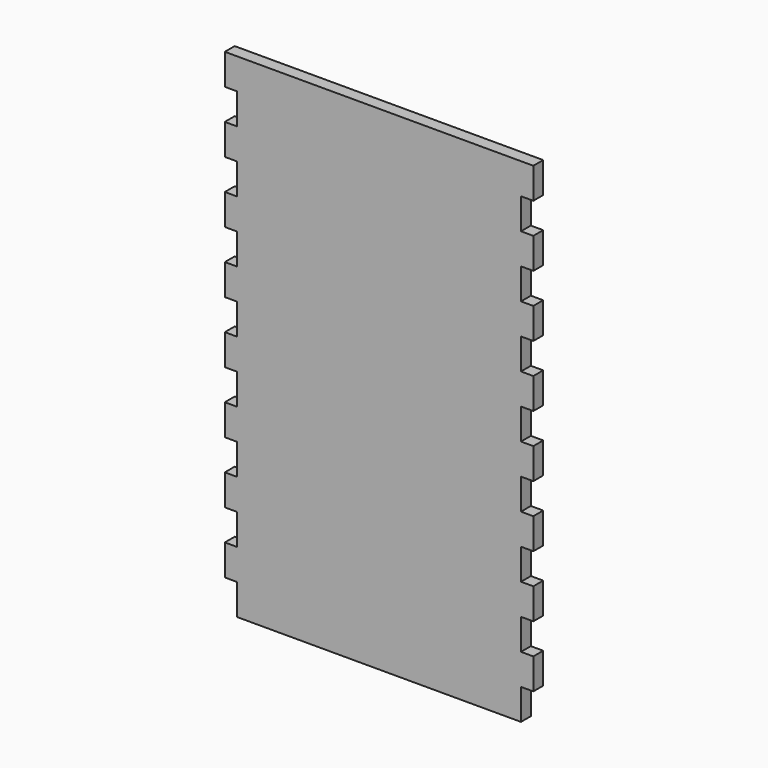
from build123d import *

# Parameters (mm, degrees)
F0_W     = 100
F0_H     = 160
F1_DEPTH = 4
F2_W     = 4
F2_H     = 10
F3_DEPTH = 4


with BuildPart() as f1:
    # F0 (on Front) → F1 (new body)
    with BuildSketch(Plane.XZ):
        with Locations((50, 80)):
            Rectangle(F0_W, F0_H)
    extrude(amount=F1_DEPTH)

    # F2 (on face) → F3 (cut, through all)
    with BuildSketch(Plane.XZ.offset(4)):
        with Locations((2, 5)):
            Rectangle(F2_W, F2_H)
        with Locations((2, 25)):
            Rectangle(F2_W, F2_H)
        with Locations((2, 45)):
            Rectangle(F2_W, F2_H)
        with Locations((2, 65)):
            Rectangle(F2_W, F2_H)
        with Locations((2, 85)):
            Rectangle(F2_W, F2_H)
        with Locations((2, 105)):
            Rectangle(F2_W, F2_H)
        with Locations((2, 125)):
            Rectangle(F2_W, F2_H)
        with Locations((2, 145)):
            Rectangle(F2_W, F2_H)
        with Locations((98, 5)):
            Rectangle(F2_W, F2_H)
        with Locations((98, 125)):
            Rectangle(F2_W, F2_H)
        with Locations((98, 105)):
            Rectangle(F2_W, F2_H)
        with Locations((98, 145)):
            Rectangle(F2_W, F2_H)
        with Locations((98, 25)):
            Rectangle(F2_W, F2_H)
        with Locations((98, 65)):
            Rectangle(F2_W, F2_H)
        with Locations((98, 85)):
            Rectangle(F2_W, F2_H)
        with Locations((98, 45)):
            Rectangle(F2_W, F2_H)
    extrude(amount=-F3_DEPTH, mode=Mode.SUBTRACT)


solid = f1.part
